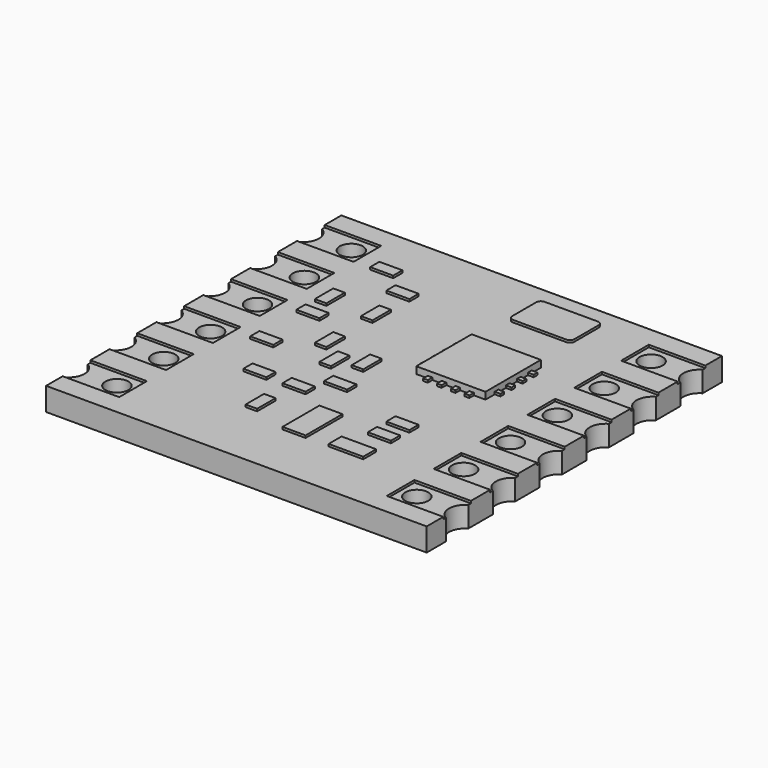
from build123d import *

# Parameters (mm, degrees)
BOX003_W               = 0.5
BOX003_H               = 1
BOX003_DEPTH           = 0.2
BOX004_W               = 0.5
BOX004_H               = 1
BOX004_DEPTH           = 0.2
BOX005_W               = 0.5
BOX005_H               = 1
BOX005_DEPTH           = 0.2
BOX006_W               = 0.5
BOX006_H               = 1
BOX006_DEPTH           = 0.2
BOX007_W               = 0.5
BOX007_H               = 1
BOX007_DEPTH           = 0.2
BOX008_W               = 1
BOX008_H               = 2
BOX008_DEPTH           = 0.2
BOX009_W               = 1
BOX009_H               = 0.5
BOX009_DEPTH           = 0.2
BOX010_W               = 1
BOX010_H               = 0.5
BOX010_DEPTH           = 0.2
BOX011_W               = 1
BOX011_H               = 0.5
BOX011_DEPTH           = 0.2
BOX012_W               = 1
BOX012_H               = 0.5
BOX012_DEPTH           = 0.2
BOX013_W               = 1
BOX013_H               = 0.5
BOX013_DEPTH           = 0.2
BOX014_W               = 0.5
BOX014_H               = 1
BOX014_DEPTH           = 0.2
BOX015_W               = 1
BOX015_H               = 0.5
BOX015_DEPTH           = 0.2
BOX016_W               = 1
BOX016_H               = 0.5
BOX016_DEPTH           = 0.2
BOX017_W               = 1.5
BOX017_H               = 0.7
BOX017_DEPTH           = 0.2
BOX018_W               = 1
BOX018_H               = 0.5
BOX018_DEPTH           = 0.2
BOX019_W               = 1
BOX019_H               = 0.5
BOX019_DEPTH           = 0.2
BOX020_W               = 2.7
BOX020_H               = 1.7
BOX020_DEPTH           = 0.2
FILLET_R               = 0.2
FILLET001_R            = 0.2
BOX002_W               = 2
BOX002_H               = 2
BOX002_DEPTH           = 2
CYLINDER004_R          = 0.7
CYLINDER004_DEPTH      = 0.9
CYLINDER001_R          = 0.75
CYLINDER001_DEPTH      = 0.9
ARRAY007_Y_COUNT       = 6
ARRAY007_Y_PITCH       = 2.54
BOX024_W               = 2
BOX024_H               = 2
BOX024_DEPTH           = 2
CYLINDER006_R          = 0.7
CYLINDER006_DEPTH      = 0.9
CYLINDER005_R          = 0.75
CYLINDER005_DEPTH      = 0.9
CUT007_PLACEMENT_ANGLE = 180
ARRAY008_Y_COUNT       = 6
ARRAY008_Y_PITCH       = 2.54
CYLINDER003_R          = 0.75
CYLINDER003_DEPTH      = 3
ARRAY004_X_COUNT       = 2
ARRAY004_X_PITCH       = 17.2
ARRAY004_Y_COUNT       = 6
ARRAY004_Y_PITCH       = 2.54
CYLINDER002_R          = 0.5
CYLINDER002_DEPTH      = 3
ARRAY001_X_COUNT       = 2
ARRAY001_X_PITCH       = 13
ARRAY001_Y_COUNT       = 6
ARRAY001_Y_PITCH       = 2.54
BOX001_W               = 2.5
BOX001_H               = 1.5
BOX001_DEPTH           = 0.1
ARRAY003_X_COUNT       = 2
ARRAY003_X_PITCH       = 14
ARRAY003_Y_COUNT       = 6
ARRAY003_Y_PITCH       = 2.54
CYLINDER_R             = 0.75
CYLINDER_DEPTH         = 3
ARRAY_X_COUNT          = 2
ARRAY_X_PITCH          = 17.2
ARRAY_Y_COUNT          = 6
ARRAY_Y_PITCH          = 2.54
BOX_W                  = 2.5
BOX_H                  = 1.5
BOX_DEPTH              = 0.3
ARRAY002_X_COUNT       = 2
ARRAY002_X_PITCH       = 14.1
ARRAY002_Y_COUNT       = 6
ARRAY002_Y_PITCH       = 2.54
SKETCH_W               = 16.5
SKETCH_H               = 16
PAD_DEPTH              = 1
BOX023_W               = 0.7
BOX023_H               = 0.2
BOX023_DEPTH           = 0.2
ARRAY006_X_COUNT       = 2
ARRAY006_X_PITCH       = 2.8
ARRAY006_Y_COUNT       = 4
ARRAY006_Y_PITCH       = 0.6
BOX022_W               = 0.2
BOX022_H               = 0.7
BOX022_DEPTH           = 0.2
ARRAY005_X_COUNT       = 4
ARRAY005_X_PITCH       = 0.6
ARRAY005_Y_COUNT       = 2
ARRAY005_Y_PITCH       = 2.8
BOX021_W               = 3
BOX021_H               = 3
BOX021_DEPTH           = 0.4


with BuildPart() as kub003:
    # Box003 → Box003 (new body)
    with BuildSketch(Plane(origin=(-5, 2.5, 0.9), x_dir=(1, 0, 0), z_dir=(0, 0, 1))):
        with Locations((0.25, 0.5)):
            Rectangle(BOX003_W, BOX003_H)
    extrude(amount=BOX003_DEPTH)


with BuildPart() as kub004:
    # Box004 → Box004 (new body)
    with BuildSketch(Plane(origin=(-3, 2.5, 0.9), x_dir=(1, 0, 0), z_dir=(0, 0, 1))):
        with Locations((0.25, 0.5)):
            Rectangle(BOX004_W, BOX004_H)
    extrude(amount=BOX004_DEPTH)


with BuildPart() as kub005:
    # Box005 → Box005 (new body)
    with BuildSketch(Plane(origin=(-2, -1, 0.9), x_dir=(1, 0, 0), z_dir=(0, 0, 1))):
        with Locations((0.25, 0.5)):
            Rectangle(BOX005_W, BOX005_H)
    extrude(amount=BOX005_DEPTH)


with BuildPart() as kub006:
    # Box006 → Box006 (new body)
    with BuildSketch(Plane(origin=(-2, -5, 0.9), x_dir=(1, 0, 0), z_dir=(0, 0, 1))):
        with Locations((0.25, 0.5)):
            Rectangle(BOX006_W, BOX006_H)
    extrude(amount=BOX006_DEPTH)


with BuildPart() as kub007:
    # Box007 → Box007 (new body)
    with BuildSketch(Plane(origin=(-1, -0.5, 0.9), x_dir=(1, 0, 0), z_dir=(0, 0, 1))):
        with Locations((0.25, 0.5)):
            Rectangle(BOX007_W, BOX007_H)
    extrude(amount=BOX007_DEPTH)


with BuildPart() as kub008:
    # Box008 → Box008 (new body)
    with BuildSketch(Plane(origin=(0, -5.5, 0.9), x_dir=(1, 0, 0), z_dir=(0, 0, 1))):
        with Locations((0.5, 1)):
            Rectangle(BOX008_W, BOX008_H)
    extrude(amount=BOX008_DEPTH)


with BuildPart() as kub009:
    # Box009 → Box009 (new body)
    with BuildSketch(Plane(origin=(-5, 5.5, 0.9), x_dir=(1, 0, 0), z_dir=(0, 0, 1))):
        with Locations((0.5, 0.25)):
            Rectangle(BOX009_W, BOX009_H)
    extrude(amount=BOX009_DEPTH)


with BuildPart() as kub010:
    # Box010 → Box010 (new body)
    with BuildSketch(Plane(origin=(-5, 1.5, 0.9), x_dir=(1, 0, 0), z_dir=(0, 0, 1))):
        with Locations((0.5, 0.25)):
            Rectangle(BOX010_W, BOX010_H)
    extrude(amount=BOX010_DEPTH)


with BuildPart() as kub011:
    # Box011 → Box011 (new body)
    with BuildSketch(Plane(origin=(-3.5, 4.5, 0.9), x_dir=(1, 0, 0), z_dir=(0, 0, 1))):
        with Locations((0.5, 0.25)):
            Rectangle(BOX011_W, BOX011_H)
    extrude(amount=BOX011_DEPTH)


with BuildPart() as kub012:
    # Box012 → Box012 (new body)
    with BuildSketch(Plane(origin=(-5, -1, 0.9), x_dir=(1, 0, 0), z_dir=(0, 0, 1))):
        with Locations((0.5, 0.25)):
            Rectangle(BOX012_W, BOX012_H)
    extrude(amount=BOX012_DEPTH)


with BuildPart() as kub013:
    # Box013 → Box013 (new body)
    with BuildSketch(Plane(origin=(-3.7, -3, 0.9), x_dir=(1, 0, 0), z_dir=(0, 0, 1))):
        with Locations((0.5, 0.25)):
            Rectangle(BOX013_W, BOX013_H)
    extrude(amount=BOX013_DEPTH)


with BuildPart() as kub014:
    # Box014 → Box014 (new body)
    with BuildSketch(Plane(origin=(-3, 0, 0.9), x_dir=(1, 0, 0), z_dir=(0, 0, 1))):
        with Locations((0.25, 0.5)):
            Rectangle(BOX014_W, BOX014_H)
    extrude(amount=BOX014_DEPTH)


with BuildPart() as kub015:
    # Box015 → Box015 (new body)
    with BuildSketch(Plane(origin=(-2, -3, 0.9), x_dir=(1, 0, 0), z_dir=(0, 0, 1))):
        with Locations((0.5, 0.25)):
            Rectangle(BOX015_W, BOX015_H)
    extrude(amount=BOX015_DEPTH)


with BuildPart() as kub016:
    # Box016 → Box016 (new body)
    with BuildSketch(Plane(origin=(-1, -2, 0.9), x_dir=(1, 0, 0), z_dir=(0, 0, 1))):
        with Locations((0.5, 0.25)):
            Rectangle(BOX016_W, BOX016_H)
    extrude(amount=BOX016_DEPTH)


with BuildPart() as kub017:
    # Box017 → Box017 (new body)
    with BuildSketch(Plane(origin=(2, -5.5, 0.9), x_dir=(1, 0, 0), z_dir=(0, 0, 1))):
        with Locations((0.75, 0.35)):
            Rectangle(BOX017_W, BOX017_H)
    extrude(amount=BOX017_DEPTH)


with BuildPart() as kub018:
    # Box018 → Box018 (new body)
    with BuildSketch(Plane(origin=(2.5, -4, 0.9), x_dir=(1, 0, 0), z_dir=(0, 0, 1))):
        with Locations((0.5, 0.25)):
            Rectangle(BOX018_W, BOX018_H)
    extrude(amount=BOX018_DEPTH)


with BuildPart() as kub019:
    # Box019 → Box019 (new body)
    with BuildSketch(Plane(origin=(2.5, -3, 0.9), x_dir=(1, 0, 0), z_dir=(0, 0, 1))):
        with Locations((0.5, 0.25)):
            Rectangle(BOX019_W, BOX019_H)
    extrude(amount=BOX019_DEPTH)


with BuildPart() as fillet001:
    # Box020 → Box020 (new body)
    with BuildSketch(Plane(origin=(1, 5.5, 0.9), x_dir=(1, 0, 0), z_dir=(0, 0, 1))):
        with Locations((1.35, 0.85)):
            Rectangle(BOX020_W, BOX020_H)
    extrude(amount=BOX020_DEPTH)

    # Fillet
    fillet_edges = [fillet001.edges().sort_by_distance(p)[0] for p in [
        (1, 5.5, 1),
        (3.7, 5.5, 1),
    ]]
    fillet(fillet_edges, radius=FILLET_R)

    # Fillet001
    fillet001_edges = [fillet001.edges().sort_by_distance(p)[0] for p in [
        (1, 7.2, 1),
        (3.7, 7.2, 1),
    ]]
    fillet(fillet001_edges, radius=FILLET001_R)


with BuildPart() as kub002:
    # Box002 → Box002 (new body)
    with BuildSketch(Plane(origin=(-10.25, 5.5, 0), x_dir=(1, 0, 0), z_dir=(0, 0, 1))):
        with Locations((1, 1)):
            Rectangle(BOX002_W, BOX002_H)
    extrude(amount=BOX002_DEPTH)


with BuildPart() as cylinder004:
    # Cylinder004 → Cylinder004 (new body)
    with BuildSketch(Plane(origin=(-8.6, 6.35, 0), x_dir=(1, 0, 0), z_dir=(0, 0, 1))):
        Circle(CYLINDER004_R)
    extrude(amount=CYLINDER004_DEPTH)


with BuildPart() as array007:
    # Cylinder001 → Cylinder001 (new body)
    with BuildSketch(Plane(origin=(-8.6, 6.35, 0), x_dir=(1, 0, 0), z_dir=(0, 0, 1))):
        Circle(CYLINDER001_R)
    extrude(amount=CYLINDER001_DEPTH)

    # Cut004: cut Cylinder004
    add(cylinder004.part, mode=Mode.SUBTRACT)

    # Cut005: cut Kub002
    add(kub002.part, mode=Mode.SUBTRACT)

    # Array007 Y: Array007 ×6


with BuildPart() as array007_1:
    add(array007.part)
    with Locations(*[(0, -i * ARRAY007_Y_PITCH, 0) for i in range(1, ARRAY007_Y_COUNT)]):
        add(array007.part)


with BuildPart() as kub024:
    # Box024 → Box024 (new body)
    with BuildSketch(Plane(origin=(-10.25, 5.5, 0), x_dir=(1, 0, 0), z_dir=(0, 0, 1))):
        with Locations((1, 1)):
            Rectangle(BOX024_W, BOX024_H)
    extrude(amount=BOX024_DEPTH)


with BuildPart() as cylinder006:
    # Cylinder006 → Cylinder006 (new body)
    with BuildSketch(Plane(origin=(-8.6, 6.35, 0), x_dir=(1, 0, 0), z_dir=(0, 0, 1))):
        Circle(CYLINDER006_R)
    extrude(amount=CYLINDER006_DEPTH)


with BuildPart() as array008:
    # Cylinder005 → Cylinder005 (new body)
    with BuildSketch(Plane(origin=(-8.6, 6.35, 0), x_dir=(1, 0, 0), z_dir=(0, 0, 1))):
        Circle(CYLINDER005_R)
    extrude(amount=CYLINDER005_DEPTH)

    # Cut006: cut Cylinder006
    add(cylinder006.part, mode=Mode.SUBTRACT)

    # Cut007: cut Kub024
    add(kub024.part, mode=Mode.SUBTRACT)


with BuildPart() as array008_1:
    # Cut007 placement: moved
    add(array008.part.rotate(Axis((0, 0, 0), (0, 0, 1)), CUT007_PLACEMENT_ANGLE))

    # Array008 Y: Array008 ×6


with BuildPart() as array008_2:
    add(array008_1.part)
    with Locations(*[(0, i * ARRAY008_Y_PITCH, 0) for i in range(1, ARRAY008_Y_COUNT)]):
        add(array008_1.part)


with BuildPart() as array004:
    # Cylinder003 → Cylinder003 (new body)
    with BuildSketch(Plane(origin=(-8.6, 6.35, -1), x_dir=(1, 0, 0), z_dir=(0, 0, 1))):
        Circle(CYLINDER003_R)
    extrude(amount=CYLINDER003_DEPTH)

    # Array004 X: Array004 ×2


with BuildPart() as array004_1:
    add(array004.part)
    with Locations(*[(i * ARRAY004_X_PITCH, 0, 0) for i in range(1, ARRAY004_X_COUNT)]):
        add(array004.part)

    # Array004 Y: Array004 ×6


with BuildPart() as array004_2:
    add(array004_1.part)
    with Locations(*[(0, -i * ARRAY004_Y_PITCH, 0) for i in range(1, ARRAY004_Y_COUNT)]):
        add(array004_1.part)


with BuildPart() as array001:
    # Cylinder002 → Cylinder002 (new body)
    with BuildSketch(Plane(origin=(-6.5, 6.35, -1), x_dir=(1, 0, 0), z_dir=(0, 0, 1))):
        Circle(CYLINDER002_R)
    extrude(amount=CYLINDER002_DEPTH)

    # Array001 X: Array001 ×2


with BuildPart() as array001_1:
    add(array001.part)
    with Locations(*[(i * ARRAY001_X_PITCH, 0, 0) for i in range(1, ARRAY001_X_COUNT)]):
        add(array001.part)

    # Array001 Y: Array001 ×6


with BuildPart() as array001_2:
    add(array001_1.part)
    with Locations(*[(0, -i * ARRAY001_Y_PITCH, 0) for i in range(1, ARRAY001_Y_COUNT)]):
        add(array001_1.part)


with BuildPart() as array003:
    # Box001 → Box001 (new body)
    with BuildSketch(Plane(origin=(-8.25, 5.6, 0.8), x_dir=(1, 0, 0), z_dir=(0, 0, 1))):
        with Locations((1.25, 0.75)):
            Rectangle(BOX001_W, BOX001_H)
    extrude(amount=BOX001_DEPTH)

    # Array003 X: Array003 ×2


with BuildPart() as array003_1:
    add(array003.part)
    with Locations(*[(i * ARRAY003_X_PITCH, 0, 0) for i in range(1, ARRAY003_X_COUNT)]):
        add(array003.part)

    # Array003 Y: Array003 ×6


with BuildPart() as array003_2:
    add(array003_1.part)
    with Locations(*[(0, -i * ARRAY003_Y_PITCH, 0) for i in range(1, ARRAY003_Y_COUNT)]):
        add(array003_1.part)


with BuildPart() as array:
    # Cylinder → Cylinder (new body)
    with BuildSketch(Plane(origin=(-8.6, 6.35, -1), x_dir=(1, 0, 0), z_dir=(0, 0, 1))):
        Circle(CYLINDER_R)
    extrude(amount=CYLINDER_DEPTH)

    # Array X: Array ×2


with BuildPart() as array_1:
    add(array.part)
    with Locations(*[(i * ARRAY_X_PITCH, 0, 0) for i in range(1, ARRAY_X_COUNT)]):
        add(array.part)

    # Array Y: Array ×6


with BuildPart() as array_2:
    add(array_1.part)
    with Locations(*[(0, -i * ARRAY_Y_PITCH, 0) for i in range(1, ARRAY_Y_COUNT)]):
        add(array_1.part)


with BuildPart() as array002:
    # Box → Box (new body)
    with BuildSketch(Plane(origin=(-8.3, 5.6, 0.8), x_dir=(1, 0, 0), z_dir=(0, 0, 1))):
        with Locations((1.25, 0.75)):
            Rectangle(BOX_W, BOX_H)
    extrude(amount=BOX_DEPTH)

    # Array002 X: Array002 ×2


with BuildPart() as array002_1:
    add(array002.part)
    with Locations(*[(i * ARRAY002_X_PITCH, 0, 0) for i in range(1, ARRAY002_X_COUNT)]):
        add(array002.part)

    # Array002 Y: Array002 ×6


with BuildPart() as array002_2:
    add(array002_1.part)
    with Locations(*[(0, -i * ARRAY002_Y_PITCH, 0) for i in range(1, ARRAY002_Y_COUNT)]):
        add(array002_1.part)


with BuildPart() as pcb:
    # Sketch → Pad (new body)
    with BuildSketch(Plane.XY):
        Rectangle(SKETCH_W, SKETCH_H)
    extrude(amount=PAD_DEPTH)

    # Cut: cut Array002
    add(array002_2.part, mode=Mode.SUBTRACT)

    # Cut001: cut Array
    add(array_2.part, mode=Mode.SUBTRACT)

    # Fusion: union Array003
    add(array003_2.part)

    # Cut002: cut Array001
    add(array001_2.part, mode=Mode.SUBTRACT)

    # Cut003: cut Array004
    add(array004_2.part, mode=Mode.SUBTRACT)

    # Fusion001: union Array007, Array008
    add(array007_1.part)
    add(array008_2.part)


with BuildPart() as array006:
    # Box023 → Box023 (new body)
    with BuildSketch(Plane(origin=(0.75, 2.8, 0.9), x_dir=(1, 0, 0), z_dir=(0, 0, 1))):
        with Locations((0.35, 0.1)):
            Rectangle(BOX023_W, BOX023_H)
    extrude(amount=BOX023_DEPTH)

    # Array006 X: Array006 ×2


with BuildPart() as array006_1:
    add(array006.part)
    with Locations(*[(i * ARRAY006_X_PITCH, 0, 0) for i in range(1, ARRAY006_X_COUNT)]):
        add(array006.part)

    # Array006 Y: Array006 ×4


with BuildPart() as array006_2:
    add(array006_1.part)
    with Locations(*[(0, -i * ARRAY006_Y_PITCH, 0) for i in range(1, ARRAY006_Y_COUNT)]):
        add(array006_1.part)


with BuildPart() as array005:
    # Box022 → Box022 (new body)
    with BuildSketch(Plane(origin=(1.5, 0.25, 0.9), x_dir=(1, 0, 0), z_dir=(0, 0, 1))):
        with Locations((0.1, 0.35)):
            Rectangle(BOX022_W, BOX022_H)
    extrude(amount=BOX022_DEPTH)

    # Array005 X: Array005 ×4


with BuildPart() as array005_1:
    add(array005.part)
    with Locations(*[(i * ARRAY005_X_PITCH, 0, 0) for i in range(1, ARRAY005_X_COUNT)]):
        add(array005.part)

    # Array005 Y: Array005 ×2


with BuildPart() as array005_2:
    add(array005_1.part)
    with Locations(*[(0, i * ARRAY005_Y_PITCH, 0) for i in range(1, ARRAY005_Y_COUNT)]):
        add(array005_1.part)


with BuildPart() as fusion002:
    # Box021 → Box021 (new body)
    with BuildSketch(Plane(origin=(1, 0.5, 0.9), x_dir=(1, 0, 0), z_dir=(0, 0, 1))):
        with Locations((1.5, 1.5)):
            Rectangle(BOX021_W, BOX021_H)
    extrude(amount=BOX021_DEPTH)

    # Fusion002: union Array006, Array005
    add(array006_2.part)
    add(array005_2.part)


solid = Compound([kub003.part, kub004.part, kub005.part, kub006.part, kub007.part, kub008.part, kub009.part, kub010.part, kub011.part, kub012.part, kub013.part, kub014.part, kub015.part, kub016.part, kub017.part, kub018.part, kub019.part, fillet001.part, pcb.part, fusion002.part])
